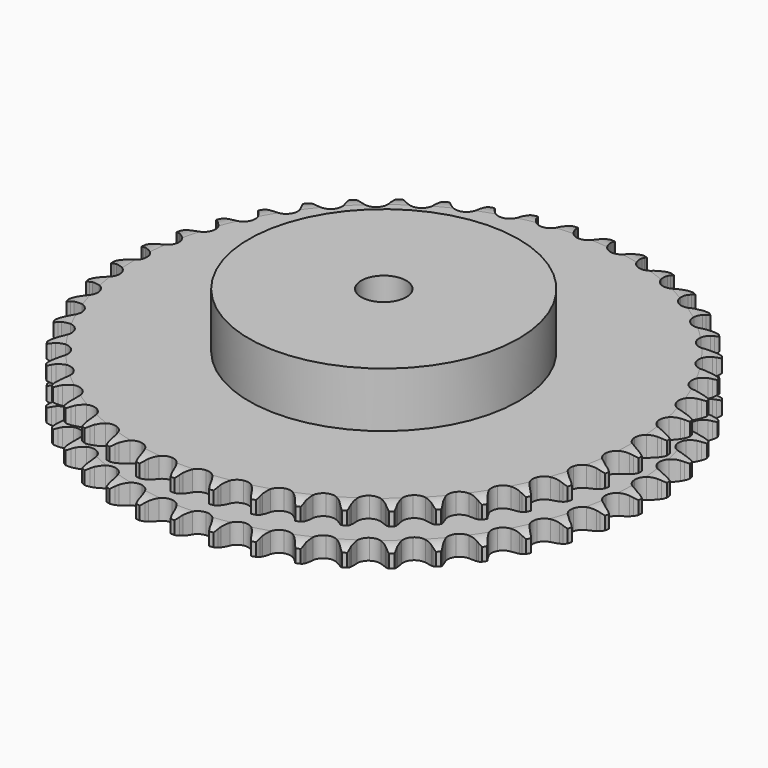
from build123d import *

# Parameters (mm, degrees)
PAD_DEPTH         = 25.5
SKETCH001_R       = 60
PAD001_DEPTH      = 50
SKETCH002_R       = 10
POCKET_DEPTH      = 0.001
POCKET_DEPTH_BACK = 50.001


with BuildPart() as part:
    # Sprocket → Pad (new body)
    with BuildSketch(Plane.XY):
        with BuildLine():
            ThreePointArc((-8.286833, 118.507226), (-7.210444, 117.126276), (-6.451241, 115.548542))
            Line((-6.451241, 115.548542), (-5.956457, 114.157319))
            ThreePointArc((-5.956457, 114.157319), (-5.175084, 112.382915), (-4.14352, 110.741291))
            ThreePointArc((-4.14352, 110.741291), (-2.321759, 109.199057), (0, 108.645222))
            ThreePointArc((0, 108.645222), (2.321759, 109.199057), (4.14352, 110.741291))
            ThreePointArc((4.14352, 110.741291), (5.175084, 112.382915), (5.956457, 114.157319))
            Line((5.956457, 114.157319), (6.451241, 115.548542))
            ThreePointArc((6.451241, 115.548542), (7.210444, 117.126276), (8.286833, 118.507226))
            ThreePointArc((8.286833, 118.507226), (9.160554, 116.989911), (9.692791, 115.32187))
            Line((9.692791, 115.32187), (9.989139, 113.875327))
            ThreePointArc((9.989139, 113.875327), (10.515958, 112.009445), (11.309013, 110.240231))
            ThreePointArc((11.309013, 110.240231), (12.898407, 108.459466), (15.120492, 107.587894))
            ThreePointArc((15.120492, 107.587894), (17.496735, 107.813213), (19.515404, 109.086898))
            Line((19.515404, 109.086898), (21.786117, 112.21737))
            ThreePointArc((21.786117, 112.21737), (22.109695, 112.881295), (22.469707, 113.526192))
            ThreePointArc((22.469707, 113.526192), (23.4411, 114.982911), (24.699204, 116.200618))
            ThreePointArc((24.699204, 116.200618), (25.353253, 114.576471), (25.648164, 112.85059))
            Line((25.648164, 112.85059), (25.740308, 111.37688))
            ThreePointArc((25.740308, 111.37688), (26.00232, 109.455838), (26.54143, 107.59347))
            ThreePointArc((26.54143, 107.59347), (27.867521, 105.608834), (29.946682, 104.43649))
            ThreePointArc((29.946682, 104.43649), (32.331157, 104.328907), (34.507444, 105.309252))
            Line((34.507444, 105.309252), (37.191735, 108.093236))
            ThreePointArc((37.191735, 108.093236), (37.604565, 108.705667), (38.050825, 109.294184))
            ThreePointArc((38.050825, 109.294184), (39.215501, 110.601535), (40.630833, 111.632297))
            ThreePointArc((40.630833, 111.632297), (41.05248, 109.932929), (41.104324, 108.182801))
            Line((41.104324, 108.182801), (40.990471, 106.71061))
            ThreePointArc((40.990471, 106.71061), (40.982575, 104.771798), (41.257247, 102.852525))
            ThreePointArc((41.257247, 102.852525), (42.294225, 100.702647), (44.189993, 99.252349))
            ThreePointArc((44.189993, 99.252349), (46.53629, 98.813958), (48.827835, 99.481882))
            Line((48.827835, 99.481882), (51.873459, 101.865191))
            ThreePointArc((51.873459, 101.865191), (52.367505, 102.414207), (52.891328, 102.934889))
            ThreePointArc((52.891328, 102.934889), (54.226617, 104.067426), (55.77163, 104.89118))
            ThreePointArc((55.77163, 104.89118), (55.952667, 103.149669), (55.760436, 101.409358))
            Line((55.760436, 101.409358), (55.442801, 99.967338))
            ThreePointArc((55.442801, 99.967338), (55.165152, 98.048494), (55.170039, 96.109672))
            ThreePointArc((55.170039, 96.109672), (55.89772, 93.836397), (57.573196, 92.136374))
            ThreePointArc((57.573196, 92.136374), (59.835647, 91.375707), (62.197848, 91.71821))
            Line((62.197848, 91.71821), (65.545524, 93.654456))
            ThreePointArc((65.545524, 93.654456), (66.111171, 94.129371), (66.702361, 94.572084))
            ThreePointArc((66.702361, 94.572084), (68.182273, 95.507762), (69.826895, 96.108475))
            ThreePointArc((69.826895, 96.108475), (69.763798, 94.358717), (69.331234, 92.662096))
            Line((69.331234, 92.662096), (68.816, 91.278317))
            ThreePointArc((68.816, 91.278317), (68.274001, 89.416787), (68.009009, 87.496154))
            ThreePointArc((68.009009, 87.496154), (68.41323, 85.143729), (69.835803, 83.227069))
            ThreePointArc((69.835803, 83.227069), (71.970371, 82.158933), (74.35725, 82.169347))
            Line((74.35725, 82.169347), (77.941821, 83.620843))
            ThreePointArc((77.941821, 83.620843), (78.568058, 84.012414), (79.215108, 84.368541))
            ThreePointArc((79.215108, 84.368541), (80.81084, 85.089149), (82.523059, 85.455129))
            ThreePointArc((82.523059, 85.455129), (82.217057, 83.73118), (81.552578, 82.111272))
            Line((81.552578, 82.111272), (80.849774, 80.812666))
            ThreePointArc((80.849774, 80.812666), (80.053975, 79.044685), (79.524261, 77.179623))
            ThreePointArc((79.524261, 77.179623), (79.597154, 74.793834), (80.739135, 72.697843))
            ThreePointArc((80.739135, 72.697843), (82.704274, 71.343028), (85.069373, 71.021152))
            Line((85.069373, 71.021152), (88.821069, 71.959646))
            ThreePointArc((88.821069, 71.959646), (89.495707, 72.260251), (90.186024, 72.52286))
            ThreePointArc((90.186024, 72.52286), (91.866515, 73.014372), (93.613005, 73.138495))
            ThreePointArc((93.613005, 73.138495), (93.070054, 71.473911), (92.186594, 69.962246))
            Line((92.186594, 69.962246), (91.309899, 68.774089))
            ThreePointArc((91.309899, 68.774089), (90.275789, 67.134068), (89.491664, 65.360878))
            ThreePointArc((89.491664, 65.360878), (89.23181, 62.988163), (90.070971, 60.753637))
            ThreePointArc((90.070971, 60.753637), (91.828432, 59.138512), (94.125718, 58.49061))
            Line((94.125718, 58.49061), (97.971515, 58.897836))
            ThreePointArc((97.971515, 58.897836), (98.681424, 59.101624), (99.401571, 59.265604))
            ThreePointArc((99.401571, 59.265604), (101.134113, 59.518453), (102.880881, 59.398304))
            ThreePointArc((102.880881, 59.398304), (102.111549, 57.825484), (101.026304, 56.451484))
            Line((101.026304, 56.451484), (99.99278, 55.396903))
            ThreePointArc((99.99278, 55.396903), (98.740487, 53.916762), (97.717214, 52.269958))
            ThreePointArc((97.717214, 52.269958), (97.12967, 49.956499), (97.649679, 47.626931))
            ThreePointArc((97.649679, 47.626931), (99.165254, 45.782932), (101.350013, 44.821616))
            Line((101.350013, 44.821616), (105.215058, 44.689647))
            ThreePointArc((105.215058, 44.689647), (105.94642, 44.792651), (106.682379, 44.85481))
            ThreePointArc((106.682379, 44.85481), (108.43325, 44.864076), (110.146298, 44.501993))
            ThreePointArc((110.146298, 44.501993), (109.165558, 43.05155), (107.899651, 41.841958))
            Line((107.899651, 41.841958), (106.729416, 40.941479))
            ThreePointArc((106.729416, 40.941479), (105.283315, 39.650028), (104.040808, 38.161663))
            ThreePointArc((104.040808, 38.161663), (103.137012, 35.952489), (103.327746, 33.57322))
            ThreePointArc((103.327746, 33.57322), (104.571938, 31.53624), (106.601645, 30.280219))
            Line((106.601645, 30.280219), (110.410709, 29.611625))
            ThreePointArc((110.410709, 29.611625), (111.149289, 29.61184), (111.886737, 29.570968))
            ThreePointArc((111.886737, 29.570968), (113.621858, 29.33647), (115.267842, 28.739501))
            ThreePointArc((115.267842, 28.739501), (114.094784, 27.439666), (112.672854, 26.418026))
            Line((112.672854, 26.418026), (111.388685, 25.689175))
            ThreePointArc((111.388685, 25.689175), (109.776922, 24.611551), (108.339367, 23.310594))
            ThreePointArc((108.339367, 23.310594), (107.136909, 21.248704), (106.994657, 18.866045))
            ThreePointArc((106.994657, 18.866045), (107.943247, 16.675731), (109.778397, 15.149453))
            Line((109.778397, 15.149453), (113.457341, 13.957246))
            ThreePointArc((113.457341, 13.957246), (114.188763, 13.854669), (114.913346, 13.711562))
            ThreePointArc((114.913346, 13.711562), (116.598945, 13.237863), (118.145829, 12.417627))
            ThreePointArc((118.145829, 12.417627), (116.803285, 11.2937), (115.253008, 10.479897))
            Line((115.253008, 10.479897), (113.8799, 9.936861))
            ThreePointArc((113.8799, 9.936861), (112.133847, 9.094039), (110.529224, 8.005811))
            ThreePointArc((110.529224, 8.005811), (109.051507, 6.131337), (108.579038, 3.791664))
            ThreePointArc((108.579038, 3.791664), (109.213564, 1.490647), (110.818437, -0.27618))
            Line((110.818437, -0.27618), (114.295655, -1.968795))
            ThreePointArc((114.295655, -1.968795), (115.005683, -2.172168), (115.703298, -2.414725))
            ThreePointArc((115.703298, -2.414725), (117.306567, -3.118404), (118.724241, -4.145942))
            ThreePointArc((118.724241, -4.145942), (117.238343, -5.072085), (115.589893, -5.662211))
            Line((115.589893, -5.662211), (114.154573, -6.008863))
            ThreePointArc((114.154573, -6.008863), (112.308213, -6.600479), (110.567755, -7.454796))
            ThreePointArc((110.567755, -7.454796), (108.843543, -9.105369), (108.050052, -11.356518))
            ThreePointArc((108.050052, -11.356518), (108.358163, -13.72345), (109.701523, -15.696438))
            Line((109.701523, -15.696438), (112.909334, -17.856516))
            ThreePointArc((112.909334, -17.856516), (113.584148, -18.156726), (114.241216, -18.494012))
            ThreePointArc((114.241216, -18.494012), (115.730949, -19.413974), (116.991821, -20.628815))
            ThreePointArc((116.991821, -20.628815), (115.391489, -21.339148), (113.676953, -21.694111))
            Line((113.676953, -21.694111), (112.207356, -21.837631))
            ThreePointArc((112.207356, -21.837631), (110.296628, -22.166526), (108.45421, -22.770303))
            ThreePointArc((108.45421, -22.770303), (106.517063, -24.16485), (105.417995, -26.283658))
            ThreePointArc((105.417995, -26.283658), (105.393694, -28.670436), (106.449393, -30.811183))
            Line((106.449393, -30.811183), (109.325362, -33.39668))
            ThreePointArc((109.325362, -33.39668), (109.951827, -33.787884), (110.55556, -34.213334))
            ThreePointArc((110.55556, -34.213334), (111.902761, -35.331674), (112.982289, -36.710171))
            ThreePointArc((112.982289, -36.710171), (111.298672, -37.190868), (109.55142, -37.303759))
            Line((109.55142, -37.303759), (108.076151, -37.241354))
            ThreePointArc((108.076151, -37.241354), (106.138245, -37.301127), (104.229727, -37.642613))
            ThreePointArc((104.229727, -37.642613), (102.117349, -38.753989), (100.734096, -40.699217))
            ThreePointArc((100.734096, -40.699217), (100.377856, -43.059384), (101.125347, -45.326223))
            Line((101.125347, -45.326223), (103.613495, -48.286815))
            ThreePointArc((103.613495, -48.286815), (104.179419, -48.7614), (104.718065, -49.266732))
            ThreePointArc((104.718065, -49.266732), (105.896512, -50.561683), (106.773685, -52.077006))
            ThreePointArc((106.773685, -52.077006), (105.039553, -52.31871), (103.293593, -52.187332))
            Line((103.293593, -52.187332), (101.841367, -51.920217))
            ThreePointArc((101.841367, -51.920217), (99.914001, -51.709703), (97.976531, -51.782252))
            ThreePointArc((97.976531, -51.782252), (95.730037, -52.588826), (94.089522, -54.322611))
            ThreePointArc((94.089522, -54.322611), (93.408278, -56.610231), (93.833011, -58.959039))
            Line((93.833011, -58.959039), (95.88491, -62.237102))
            ThreePointArc((95.88491, -62.237102), (96.379277, -62.78583), (96.842352, -63.361209))
            ThreePointArc((96.842352, -63.361209), (97.829108, -64.807566), (98.486852, -66.430221))
            ThreePointArc((98.486852, -66.430221), (96.735958, -66.428228), (95.025274, -66.055139))
            Line((95.025274, -66.055139), (93.624356, -65.588512))
            ThreePointArc((93.624356, -65.588512), (91.745045, -65.111809), (89.816334, -64.914008))
            ThreePointArc((89.816334, -64.914008), (87.479449, -65.400081), (85.613603, -66.888678))
            ThreePointArc((85.613603, -66.888678), (84.620613, -69.059224), (84.714323, -71.444285))
            Line((84.714323, -71.444285), (86.290034, -74.976016))
            ThreePointArc((86.290034, -74.976016), (86.703222, -75.588205), (87.081713, -76.222433))
            ThreePointArc((87.081713, -76.222433), (87.857572, -77.792043), (88.283085, -79.490447))
            ThreePointArc((88.283085, -79.490447), (86.549508, -79.244797), (84.907396, -78.637256))
            Line((84.907396, -78.637256), (83.585054, -77.980201))
            ThreePointArc((83.585054, -77.980201), (81.790377, -77.246588), (79.907964, -76.782287))
            ThreePointArc((79.907964, -76.782287), (77.526173, -76.938398), (75.471313, -78.152832))
            ThreePointArc((75.471313, -78.152832), (74.185905, -80.164057), (73.946766, -82.538949))
            Line((73.946766, -82.538949), (75.015621, -86.255606))
            ThreePointArc((75.015621, -86.255606), (75.339587, -86.919342), (75.626127, -87.600073))
            ThreePointArc((75.626127, -87.600073), (76.175989, -89.262387), (76.360988, -91.003482))
            ThreePointArc((76.360988, -91.003482), (74.67847, -90.518955), (73.136892, -89.68879))
            Line((73.136892, -89.68879), (71.918863, -88.854094))
            ThreePointArc((71.918863, -88.854094), (70.243751, -87.87785), (68.444276, -87.156087))
            ThreePointArc((68.444276, -87.156087), (66.063938, -86.979197), (63.860059, -87.895831))
            ThreePointArc((63.860059, -87.895831), (62.307253, -89.708589), (61.73992, -92.027086))
            Line((61.73992, -92.027086), (62.281114, -95.856329))
            ThreePointArc((62.281114, -95.856329), (62.509553, -96.558693), (62.698565, -97.272678))
            ThreePointArc((62.698565, -97.272678), (63.011726, -98.995341), (62.952612, -100.745238))
            ThreePointArc((62.952612, -100.745238), (61.3539, -100.031265), (59.942862, -98.994633))
            Line((59.942862, -98.994633), (58.852854, -97.998543))
            ThreePointArc((58.852854, -97.998543), (57.329911, -96.79867), (55.648398, -95.833492))
            ThreePointArc((55.648398, -95.833492), (53.315844, -95.327044), (51.005842, -95.928037))
            ThreePointArc((51.005842, -95.928037), (49.21586, -97.507044), (48.331376, -99.724021))
            Line((48.331376, -99.724021), (48.334376, -103.591317))
            ThreePointArc((48.334376, -103.591317), (48.462841, -104.318639), (48.550647, -105.051981))
            ThreePointArc((48.550647, -105.051981), (48.621012, -106.801462), (48.318934, -108.526102))
            ThreePointArc((48.318934, -108.526102), (46.835147, -107.59658), (45.582112, -106.373658))
            Line((45.582112, -106.373658), (44.641341, -105.235562))
            ThreePointArc((44.641341, -105.235562), (43.300209, -103.835413), (41.769387, -102.645607))
            ThreePointArc((41.769387, -102.645607), (39.530017, -101.819459), (37.158854, -102.093113))
            ThreePointArc((37.158854, -102.093113), (35.166537, -103.407636), (33.982117, -105.479941))
            Line((33.982117, -105.479941), (33.446864, -109.310019))
            ThreePointArc((33.446864, -109.310019), (33.472856, -110.048141), (33.457745, -110.786566))
            ThreePointArc((33.457745, -110.786566), (33.283945, -112.528814), (32.744783, -114.19463))
            ThreePointArc((32.744783, -114.19463), (31.404801, -113.06765), (30.334158, -111.68224))
            Line((30.334158, -111.68224), (29.560935, -110.424291))
            ThreePointArc((29.560935, -110.424291), (28.427718, -108.851118), (27.077383, -107.459842))
            ThreePointArc((27.077383, -107.459842), (24.974784, -106.330075), (22.588612, -106.271063))
            ThreePointArc((22.588612, -106.271063), (20.432737, -107.295516), (18.971435, -109.182814))
            Line((18.971435, -109.182814), (17.908347, -112.901125))
            ThreePointArc((17.908347, -112.901125), (17.831359, -113.635681), (17.713627, -114.364817))
            ThreePointArc((17.713627, -114.364817), (17.299043, -116.065922), (16.533292, -117.640488))
            ThreePointArc((16.533292, -117.640488), (15.363196, -116.337987), (14.495785, -114.817055))
            Line((14.495785, -114.817055), (13.905159, -113.463736))
            ThreePointArc((13.905159, -113.463736), (13.001914, -111.74816), (11.858348, -110.182494))
            ThreePointArc((11.858348, -110.182494), (9.933445, -108.771096), (7.578708, -108.380568))
            ThreePointArc((7.578708, -108.380568), (5.301238, -109.095011), (3.591495, -110.760568))
            Line((3.591495, -110.760568), (2.021265, -114.294739))
            ThreePointArc((2.021265, -114.294739), (1.842796, -115.011432), (1.624733, -115.717087))
            ThreePointArc((1.624733, -115.717087), (0.977436, -117.343937), (0, -118.796609))
            ThreePointArc((0, -118.796609), (-0.977436, -117.343937), (-1.624733, -115.717087))
            Line((-1.624733, -115.717087), (-2.021265, -114.294739))
            ThreePointArc((-2.021265, -114.294739), (-2.676958, -112.470152), (-3.591495, -110.760568))
            ThreePointArc((-3.591495, -110.760568), (-5.301238, -109.095011), (-7.578708, -108.380568))
            ThreePointArc((-7.578708, -108.380568), (-9.933445, -108.771096), (-11.858348, -110.182494))
            Line((-11.858348, -110.182494), (-13.905159, -113.463736))
            ThreePointArc((-13.905159, -113.463736), (-14.181636, -114.148616), (-14.495785, -114.817055))
            ThreePointArc((-14.495785, -114.817055), (-15.363196, -116.337987), (-16.533292, -117.640488))
            ThreePointArc((-16.533292, -117.640488), (-17.299043, -116.065922), (-17.713627, -114.364817))
            Line((-17.713627, -114.364817), (-17.908347, -112.901125))
            ThreePointArc((-17.908347, -112.901125), (-18.303726, -111.003039), (-18.971435, -109.182814))
            ThreePointArc((-18.971435, -109.182814), (-20.432737, -107.295516), (-22.588612, -106.271063))
            ThreePointArc((-22.588612, -106.271063), (-24.974784, -106.330075), (-27.077383, -107.459842))
            Line((-27.077383, -107.459842), (-29.560935, -110.424291))
            ThreePointArc((-29.560935, -110.424291), (-29.930038, -111.064028), (-30.334158, -111.68224))
            ThreePointArc((-30.334158, -111.68224), (-31.404801, -113.06765), (-32.744783, -114.19463))
            ThreePointArc((-32.744783, -114.19463), (-33.283945, -112.528814), (-33.457745, -110.786566))
            Line((-33.457745, -110.786566), (-33.446864, -109.310019))
            ThreePointArc((-33.446864, -109.310019), (-33.574232, -107.375379), (-33.982117, -105.479941))
            ThreePointArc((-33.982117, -105.479941), (-35.166537, -103.407636), (-37.158854, -102.093113))
            ThreePointArc((-37.158854, -102.093113), (-39.530017, -101.819459), (-41.769387, -102.645607))
            Line((-41.769387, -102.645607), (-44.641341, -105.235562))
            ThreePointArc((-44.641341, -105.235562), (-45.095886, -105.817704), (-45.582112, -106.373658))
            ThreePointArc((-45.582112, -106.373658), (-46.835147, -107.59658), (-48.318934, -108.526102))
            ThreePointArc((-48.318934, -108.526102), (-48.621012, -106.801462), (-48.550647, -105.051981))
            Line((-48.550647, -105.051981), (-48.334376, -103.591317))
            ThreePointArc((-48.334376, -103.591317), (-48.191255, -101.657779), (-48.331376, -99.724021))
            ThreePointArc((-48.331376, -99.724021), (-49.21586, -97.507044), (-51.005842, -95.928037))
            ThreePointArc((-51.005842, -95.928037), (-53.315844, -95.327044), (-55.648398, -95.833492))
            Line((-55.648398, -95.833492), (-58.852854, -97.998543))
            ThreePointArc((-58.852854, -97.998543), (-59.383994, -98.511759), (-59.942862, -98.994633))
            ThreePointArc((-59.942862, -98.994633), (-61.3539, -100.031265), (-62.952612, -100.745238))
            ThreePointArc((-62.952612, -100.745238), (-63.011726, -98.995341), (-62.698565, -97.272678))
            Line((-62.698565, -97.272678), (-62.281114, -95.856329))
            ThreePointArc((-62.281114, -95.856329), (-61.870289, -93.961526), (-61.73992, -92.027086))
            ThreePointArc((-61.73992, -92.027086), (-62.307253, -89.708589), (-63.860059, -87.895831))
            ThreePointArc((-63.860059, -87.895831), (-66.063938, -86.979197), (-68.444276, -87.156087))
            Line((-68.444276, -87.156087), (-71.918863, -88.854094))
            ThreePointArc((-71.918863, -88.854094), (-72.51626, -89.288395), (-73.136892, -89.68879))
            ThreePointArc((-73.136892, -89.68879), (-74.67847, -90.518955), (-76.360988, -91.003482))
            ThreePointArc((-76.360988, -91.003482), (-76.175989, -89.262387), (-75.626127, -87.600073))
            Line((-75.626127, -87.600073), (-75.015621, -86.255606))
            ThreePointArc((-75.015621, -86.255606), (-74.345089, -84.436419), (-73.946766, -82.538949))
            ThreePointArc((-73.946766, -82.538949), (-74.185905, -80.164057), (-75.471313, -78.152832))
            ThreePointArc((-75.471313, -78.152832), (-77.526173, -76.938398), (-79.907964, -76.782287))
            Line((-79.907964, -76.782287), (-83.585054, -77.980201))
            ThreePointArc((-83.585054, -77.980201), (-84.23708, -78.327133), (-84.907396, -78.637256))
            ThreePointArc((-84.907396, -78.637256), (-86.549508, -79.244797), (-88.283085, -79.490447))
            ThreePointArc((-88.283085, -79.490447), (-87.857572, -77.792043), (-87.081713, -76.222433))
            Line((-87.081713, -76.222433), (-86.290034, -74.976016))
            ThreePointArc((-86.290034, -74.976016), (-85.372846, -73.267853), (-84.714323, -71.444285))
            ThreePointArc((-84.714323, -71.444285), (-84.620613, -69.059224), (-85.613603, -66.888678))
            ThreePointArc((-85.613603, -66.888678), (-87.479449, -65.400081), (-89.816334, -64.914008))
            Line((-89.816334, -64.914008), (-93.624356, -65.588512))
            ThreePointArc((-93.624356, -65.588512), (-94.31832, -65.841323), (-95.025274, -66.055139))
            ThreePointArc((-95.025274, -66.055139), (-96.735958, -66.428228), (-98.486852, -66.430221))
            ThreePointArc((-98.486852, -66.430221), (-97.829108, -64.807566), (-96.842352, -63.361209))
            Line((-96.842352, -63.361209), (-95.88491, -62.237102))
            ThreePointArc((-95.88491, -62.237102), (-94.738917, -60.673212), (-93.833011, -58.959039))
            ThreePointArc((-93.833011, -58.959039), (-93.408278, -56.610231), (-94.089522, -54.322611))
            ThreePointArc((-94.089522, -54.322611), (-95.730037, -52.588826), (-97.976531, -51.782252))
            Line((-97.976531, -51.782252), (-101.841367, -51.920217))
            ThreePointArc((-101.841367, -51.920217), (-102.563762, -52.073987), (-103.293593, -52.187332))
            ThreePointArc((-103.293593, -52.187332), (-105.039553, -52.31871), (-106.773685, -52.077006))
            ThreePointArc((-106.773685, -52.077006), (-105.896512, -50.561683), (-104.718065, -49.266732))
            Line((-104.718065, -49.266732), (-103.613495, -48.286815))
            ThreePointArc((-103.613495, -48.286815), (-102.261004, -46.897635), (-101.125347, -45.326223))
            ThreePointArc((-101.125347, -45.326223), (-100.377856, -43.059384), (-100.734096, -40.699217))
            ThreePointArc((-100.734096, -40.699217), (-102.117349, -38.753989), (-104.229727, -37.642613))
            Line((-104.229727, -37.642613), (-108.076151, -37.241354))
            ThreePointArc((-108.076151, -37.241354), (-108.812917, -37.29309), (-109.55142, -37.303759))
            ThreePointArc((-109.55142, -37.303759), (-111.298672, -37.190868), (-112.982289, -36.710171))
            ThreePointArc((-112.982289, -36.710171), (-111.902761, -35.331674), (-110.55556, -34.213334))
            Line((-110.55556, -34.213334), (-109.325362, -33.39668))
            ThreePointArc((-109.325362, -33.39668), (-107.792696, -32.20925), (-106.449393, -30.811183))
            ThreePointArc((-106.449393, -30.811183), (-105.393694, -28.670436), (-105.417995, -26.283658))
            ThreePointArc((-105.417995, -26.283658), (-106.517063, -24.16485), (-108.45421, -22.770303))
            Line((-108.45421, -22.770303), (-112.207356, -21.837631))
            ThreePointArc((-112.207356, -21.837631), (-112.944152, -21.786325), (-113.676953, -21.694111))
            ThreePointArc((-113.676953, -21.694111), (-115.391489, -21.339148), (-116.991821, -20.628815))
            ThreePointArc((-116.991821, -20.628815), (-115.730949, -19.413974), (-114.241216, -18.494012))
            Line((-114.241216, -18.494012), (-112.909334, -17.856516))
            ThreePointArc((-112.909334, -17.856516), (-111.226326, -16.893948), (-109.701523, -15.696438))
            ThreePointArc((-109.701523, -15.696438), (-108.358163, -13.72345), (-108.050052, -11.356518))
            ThreePointArc((-108.050052, -11.356518), (-108.843543, -9.105369), (-110.567755, -7.454796))
            Line((-110.567755, -7.454796), (-114.154573, -6.008863))
            ThreePointArc((-114.154573, -6.008863), (-114.877058, -5.855514), (-115.589893, -5.662211))
            ThreePointArc((-115.589893, -5.662211), (-117.238343, -5.072085), (-118.724241, -4.145942))
            ThreePointArc((-118.724241, -4.145942), (-117.306567, -3.118404), (-115.703298, -2.414725))
            Line((-115.703298, -2.414725), (-114.295655, -1.968795))
            ThreePointArc((-114.295655, -1.968795), (-112.495062, -1.249824), (-110.818437, -0.27618))
            ThreePointArc((-110.818437, -0.27618), (-109.213564, 1.490647), (-108.579038, 3.791664))
            ThreePointArc((-108.579038, 3.791664), (-109.051507, 6.131337), (-110.529224, 8.005811))
            Line((-110.529224, 8.005811), (-113.8799, 9.936861))
            ThreePointArc((-113.8799, 9.936861), (-114.574012, 10.189268), (-115.253008, 10.479897))
            ThreePointArc((-115.253008, 10.479897), (-116.803285, 11.2937), (-118.145829, 12.417627))
            ThreePointArc((-118.145829, 12.417627), (-116.598945, 13.237863), (-114.913346, 13.711562))
            Line((-114.913346, 13.711562), (-113.457341, 13.957246))
            ThreePointArc((-113.457341, 13.957246), (-111.57421, 14.418626), (-109.778397, 15.149453))
            ThreePointArc((-109.778397, 15.149453), (-107.943247, 16.675731), (-106.994657, 18.866045))
            ThreePointArc((-106.994657, 18.866045), (-107.136909, 21.248704), (-108.339367, 23.310594))
            Line((-108.339367, 23.310594), (-111.388685, 25.689175))
            ThreePointArc((-111.388685, 25.689175), (-112.040914, 26.035727), (-112.672854, 26.418026))
            ThreePointArc((-112.672854, 26.418026), (-114.094784, 27.439666), (-115.267842, 28.739501))
            ThreePointArc((-115.267842, 28.739501), (-113.621858, 29.33647), (-111.886737, 29.570968))
            Line((-111.886737, 29.570968), (-110.410709, 29.611625))
            ThreePointArc((-110.410709, 29.611625), (-108.481693, 29.806433), (-106.601645, 30.280219))
            ThreePointArc((-106.601645, 30.280219), (-104.571938, 31.53624), (-103.327746, 33.57322))
            ThreePointArc((-103.327746, 33.57322), (-103.137012, 35.952489), (-104.040808, 38.161663))
            Line((-104.040808, 38.161663), (-106.729416, 40.941479))
            ThreePointArc((-106.729416, 40.941479), (-107.327066, 41.375431), (-107.899651, 41.841958))
            ThreePointArc((-107.899651, 41.841958), (-109.165558, 43.05155), (-110.146298, 44.501993))
            ThreePointArc((-110.146298, 44.501993), (-108.43325, 44.864076), (-106.682379, 44.85481))
            Line((-106.682379, 44.85481), (-105.215058, 44.689647))
            ThreePointArc((-105.215058, 44.689647), (-103.277702, 44.614093), (-101.350013, 44.821616))
            ThreePointArc((-101.350013, 44.821616), (-99.165254, 45.782932), (-97.649679, 47.626931))
            ThreePointArc((-97.649679, 47.626931), (-97.12967, 49.956499), (-97.717214, 52.269958))
            Line((-97.717214, 52.269958), (-99.99278, 55.396903))
            ThreePointArc((-99.99278, 55.396903), (-100.52422, 55.909808), (-101.026304, 56.451484))
            ThreePointArc((-101.026304, 56.451484), (-102.111549, 57.825484), (-102.880881, 59.398304))
            ThreePointArc((-102.880881, 59.398304), (-101.134113, 59.518453), (-99.401571, 59.265604))
            Line((-99.401571, 59.265604), (-97.971515, 58.897836))
            ThreePointArc((-97.971515, 58.897836), (-96.063529, 58.553389), (-94.125718, 58.49061))
            ThreePointArc((-94.125718, 58.49061), (-91.828432, 59.138512), (-90.070971, 60.753637))
            ThreePointArc((-90.070971, 60.753637), (-89.23181, 62.988163), (-89.491664, 65.360878))
            Line((-89.491664, 65.360878), (-91.309899, 68.774089))
            ThreePointArc((-91.309899, 68.774089), (-91.764784, 69.355965), (-92.186594, 69.962246))
            ThreePointArc((-92.186594, 69.962246), (-93.070054, 71.473911), (-93.613005, 73.138495))
            ThreePointArc((-93.613005, 73.138495), (-91.866515, 73.014372), (-90.186024, 72.52286))
            Line((-90.186024, 72.52286), (-88.821069, 71.959646))
            ThreePointArc((-88.821069, 71.959646), (-86.979589, 71.353011), (-85.069373, 71.021152))
            ThreePointArc((-85.069373, 71.021152), (-82.704274, 71.343028), (-80.739135, 72.697843))
            ThreePointArc((-80.739135, 72.697843), (-79.597154, 74.793834), (-79.524261, 77.179623))
            Line((-79.524261, 77.179623), (-80.849774, 80.812666))
            ThreePointArc((-80.849774, 80.812666), (-81.21925, 81.452187), (-81.552578, 82.111272))
            ThreePointArc((-81.552578, 82.111272), (-82.217057, 83.73118), (-82.523059, 85.455129))
            ThreePointArc((-82.523059, 85.455129), (-80.81084, 85.089149), (-79.215108, 84.368541))
            Line((-79.215108, 84.368541), (-77.941821, 83.620843))
            ThreePointArc((-77.941821, 83.620843), (-76.20269, 82.763828), (-74.35725, 82.169347))
            ThreePointArc((-74.35725, 82.169347), (-71.970371, 82.158933), (-69.835803, 83.227069))
            ThreePointArc((-69.835803, 83.227069), (-68.41323, 85.143729), (-68.009009, 87.496154))
            Line((-68.009009, 87.496154), (-68.816, 91.278317))
            ThreePointArc((-68.816, 91.278317), (-69.092877, 91.963035), (-69.331234, 92.662096))
            ThreePointArc((-69.331234, 92.662096), (-69.763798, 94.358717), (-69.826895, 96.108475))
            ThreePointArc((-69.826895, 96.108475), (-68.182273, 95.507762), (-66.702361, 94.572084))
            Line((-66.702361, 94.572084), (-65.545524, 93.654456))
            ThreePointArc((-65.545524, 93.654456), (-63.942592, 92.56374), (-62.197848, 91.71821))
            ThreePointArc((-62.197848, 91.71821), (-59.835647, 91.375707), (-57.573196, 92.136374))
            ThreePointArc((-57.573196, 92.136374), (-55.89772, 93.836397), (-55.170039, 96.109672))
            Line((-55.170039, 96.109672), (-55.442801, 99.967338))
            ThreePointArc((-55.442801, 99.967338), (-55.621689, 100.683927), (-55.760436, 101.409358))
            ThreePointArc((-55.760436, 101.409358), (-55.952667, 103.149669), (-55.77163, 104.89118))
            ThreePointArc((-55.77163, 104.89118), (-54.226617, 104.067426), (-52.891328, 102.934889))
            Line((-52.891328, 102.934889), (-51.873459, 101.865191))
            ThreePointArc((-51.873459, 101.865191), (-50.437924, 100.562005), (-48.827835, 99.481882))
            ThreePointArc((-48.827835, 99.481882), (-46.53629, 98.813958), (-44.189993, 99.252349))
            ThreePointArc((-44.189993, 99.252349), (-42.294225, 100.702647), (-41.257247, 102.852525))
            Line((-41.257247, 102.852525), (-40.990471, 106.71061))
            ThreePointArc((-40.990471, 106.71061), (-41.067888, 107.445121), (-41.104324, 108.182801))
            ThreePointArc((-41.104324, 108.182801), (-41.05248, 109.932929), (-40.630833, 111.632297))
            ThreePointArc((-40.630833, 111.632297), (-39.215501, 110.601535), (-38.050825, 109.294184))
            Line((-38.050825, 109.294184), (-37.191735, 108.093236))
            ThreePointArc((-37.191735, 108.093236), (-35.95154, 106.602945), (-34.507444, 105.309252))
            ThreePointArc((-34.507444, 105.309252), (-32.331157, 104.328907), (-29.946682, 104.43649))
            ThreePointArc((-29.946682, 104.43649), (-27.867521, 105.608834), (-26.54143, 107.59347))
            Line((-26.54143, 107.59347), (-25.740308, 111.37688))
            ThreePointArc((-25.740308, 111.37688), (-25.714747, 112.115018), (-25.648164, 112.85059))
            ThreePointArc((-25.648164, 112.85059), (-25.353253, 114.576471), (-24.699204, 116.200618))
            ThreePointArc((-24.699204, 116.200618), (-23.4411, 114.982911), (-22.469707, 113.526192))
            Line((-22.469707, 113.526192), (-21.786117, 112.21737))
            ThreePointArc((-21.786117, 112.21737), (-20.765399, 110.56898), (-19.515404, 109.086898))
            ThreePointArc((-19.515404, 109.086898), (-17.496735, 107.813213), (-15.120492, 107.587894))
            ThreePointArc((-15.120492, 107.587894), (-12.898407, 108.459466), (-11.309013, 110.240231))
            Line((-11.309013, 110.240231), (-9.989139, 113.875327))
            ThreePointArc((-9.989139, 113.875327), (-9.861099, 114.602723), (-9.692791, 115.32187))
            ThreePointArc((-9.692791, 115.32187), (-9.160554, 116.989911), (-8.286833, 118.507226))
        make_face()
    extrude(amount=PAD_DEPTH)

    # Sketch → Groove (revolve, cut)
    with BuildSketch(Plane.XZ):
        with BuildLine():
            ThreePointArc((110.525762, 0), (114.10347, 0.405129), (117.5, 1.6))
            Line((117.5, 1.6), (117.5, 7.4))
            ThreePointArc((117.5, 7.4), (114.10347, 8.594871), (110.525762, 9))
            Line((60, 9), (110.525762, 9))
            Line((60, 16.5), (60, 9))
            Line((110.525762, 16.5), (60, 16.5))
            ThreePointArc((110.525762, 16.5), (114.10347, 16.905129), (117.5, 18.1))
            Line((117.5, 18.1), (117.5, 23.9))
            ThreePointArc((117.5, 23.9), (114.10347, 25.094871), (110.525762, 25.5))
            Line((110.525762, 25.5), (120.525762, 25.5))
            Line((120.525762, 25.5), (120.525762, 0))
            Line((110.525762, 0), (120.525762, 0))
        make_face()
    revolve(axis=Axis((0, 0, 0), (0, 0, 1)), mode=Mode.SUBTRACT)

    # Sketch001 → Pad001 (join)
    with BuildSketch(Plane.XY):
        Circle(SKETCH001_R)
    extrude(amount=PAD001_DEPTH)

    # Sketch002 → Pocket (cut, two sides)
    with BuildSketch(Plane.XY) as pocket_sk:
        Circle(SKETCH002_R)
    extrude(amount=-POCKET_DEPTH, mode=Mode.SUBTRACT)
    extrude(pocket_sk.sketch, amount=POCKET_DEPTH_BACK, mode=Mode.SUBTRACT)


solid = part.part
